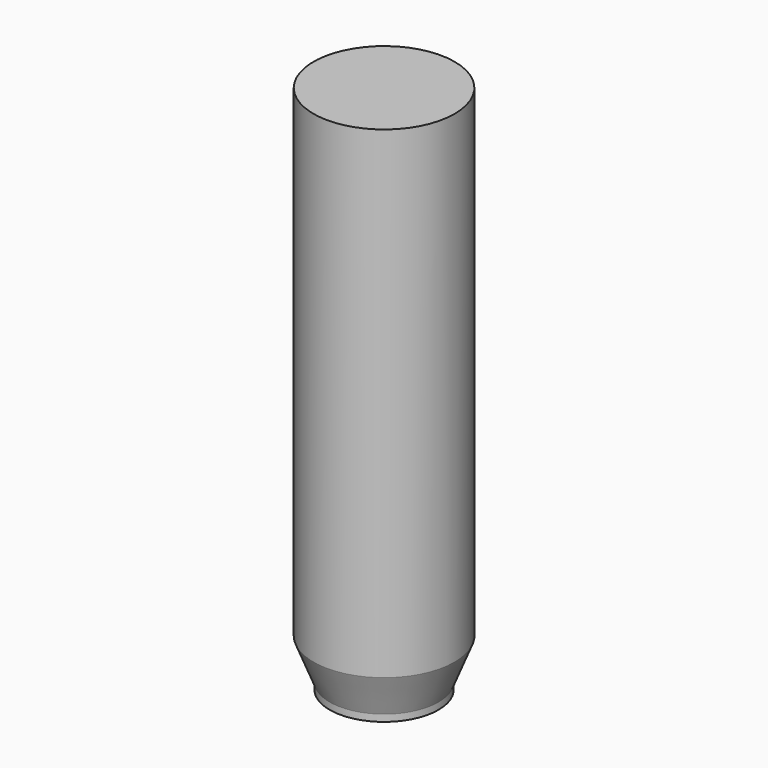
from build123d import *

# Parameters (mm, degrees)
SKETCH_W    = 50
SKETCH_H    = 342
SKETCH003_R = 8.323834
SKETCH002_R = 15.87187


with BuildPart() as part:
    # Sketch → Revolution (revolve)
    with BuildSketch(Plane.XZ):
        with Locations((25, 171)):
            Rectangle(SKETCH_W, SKETCH_H)
    revolve(axis=Axis((0, 0, 0), (0, 0, 1)))

    # Sketch001 → Revolution001 (revolve)
    with BuildSketch(Plane.XZ):
        Polygon((50, 0), (38.572964, -28.773746), (38.572964, -33.573742), (29.993038, -33.573742), (29.993038, -38), (0, -38), (0, 0), align=None)
    revolve(axis=Axis((0, 0, 0), (0, 0, 1)))

    # Sketch003 (on DatumPlane) → SubtractiveLoft section 0
    with BuildSketch(Plane(origin=(0, 0, -8), x_dir=(1, 0, 0), z_dir=(0, 0, -1))):
        Circle(SKETCH003_R)
    # Sketch002 (on Face7 of Revolution001) → SubtractiveLoft section 1
    with BuildSketch(Plane(origin=(0, 0, -38), x_dir=(1, 0, 0), z_dir=(0, 0, -1))):
        Circle(SKETCH002_R)
    loft(mode=Mode.SUBTRACT)


solid = part.part
